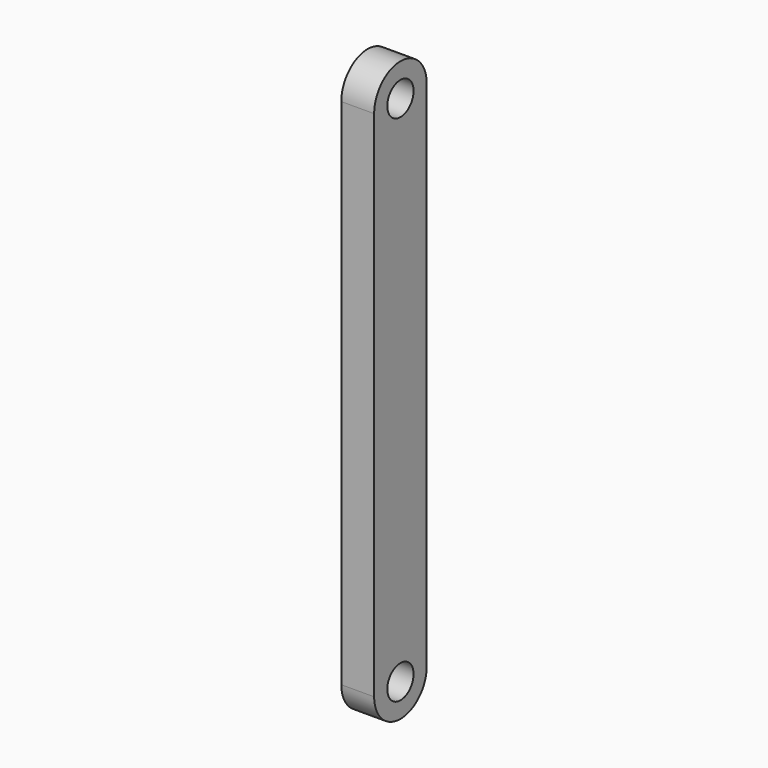
from build123d import *

# Parameters (mm, degrees)
F0_R     = 1.6
F1_DEPTH = 1.6


with BuildPart() as f1:
    # F0 (on Right) → F1 (new body, symmetric)
    with BuildSketch(Plane.YZ):
        with BuildLine():
            ThreePointArc((6.4, 25), (3.2, 28.2), (0, 25))
            Line((0, 25), (0, -25))
            ThreePointArc((0, -25), (3.2, -28.2), (6.4, -25))
            Line((6.4, -25), (6.4, 25))
        make_face()
        with Locations((3.2, -25)):
            Circle(F0_R, mode=Mode.SUBTRACT)
        with Locations((3.2, 25)):
            Circle(F0_R, mode=Mode.SUBTRACT)
    extrude(amount=F1_DEPTH, both=True)


solid = f1.part
